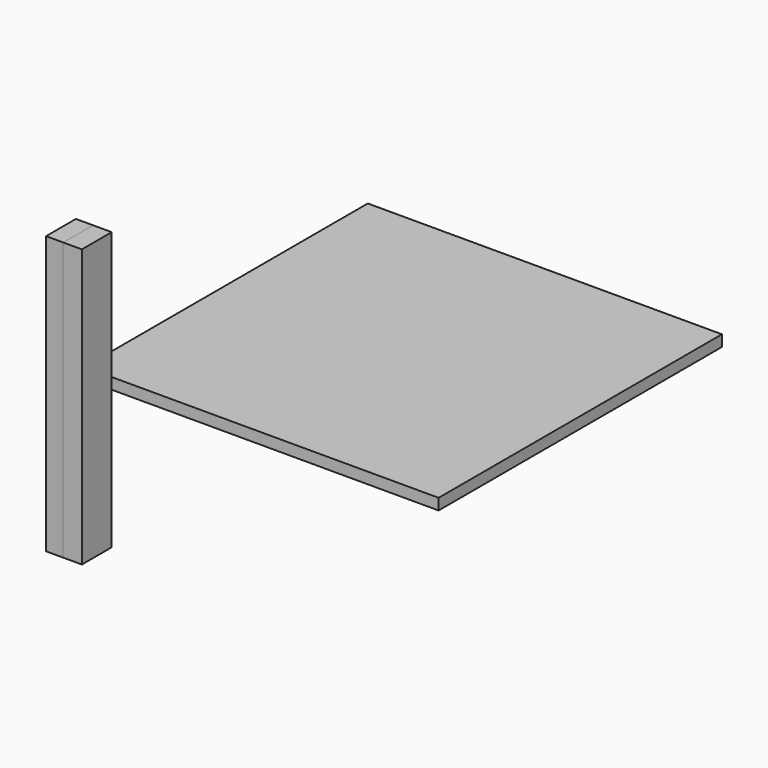
from build123d import *

# Parameters (mm, degrees)
F0_W      = 190
F0_H      = 190
F1_DEPTH  = 6
F2_W      = 9.207172
F2_H      = 148.86655
F3_DEPTH  = 20
F3_FACE_W = 20
F3_FACE_H = 148.86655
F4_DEPTH  = 10


with BuildPart() as f1:
    # F0 (on Top) → F1 (new body)
    with BuildSketch(Plane.XY):
        with Locations((95, 95)):
            Rectangle(F0_W, F0_H)
    extrude(amount=F1_DEPTH)


with BuildPart() as f3:
    # F2 (on Front) → F3 (new body)
    with BuildSketch(Plane.XZ):
        Rectangle(F2_W, F2_H)
    extrude(amount=F3_DEPTH)


with BuildPart() as f4:
    # F3_face (on face) → F4 (new body)
    with BuildSketch(Plane(origin=(4.603586, -10, 0), x_dir=(0, 1, 0), z_dir=(1, 0, 0))):
        Rectangle(F3_FACE_W, F3_FACE_H)
    extrude(amount=F4_DEPTH)


solid = Compound([f1.part, f3.part, f4.part])
